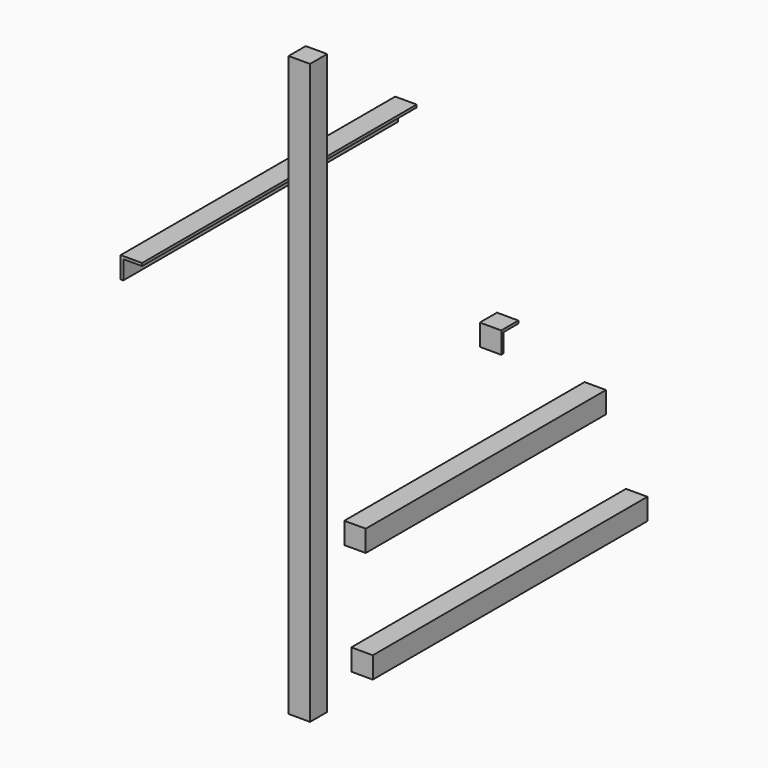
from build123d import *

# Parameters (mm, degrees)
F0_W     = 25.4
F0_H     = 685.8
F0_W_2   = 406.4
F0_H_2   = 25.4
F0_W_3   = 355.6
F2_DEPTH = 25.4
F3_DEPTH = 406.4
F5_DEPTH = 25.4


with BuildPart() as f2:
    # F0 (on Right) → F2 (new body)
    with BuildSketch(Plane.YZ):
        with Locations((-405.775041, 1.37486)):
            Rectangle(F0_W, F0_H)
        with Locations((-122.439238, -322.495435)):
            Rectangle(F0_W_2, F0_H_2)
        with Locations((-158.251571, -186.315849)):
            Rectangle(F0_W_3, F0_H_2)
    extrude(amount=F2_DEPTH)


with BuildPart() as f3:
    # F1 (on Front) → F3 (new body)
    with BuildSketch(Plane.XZ):
        Polygon((-208.543692, 64.031744), (-208.543692, 38.631744), (-205.368692, 38.631744), (-205.368692, 60.856744), (-183.143692, 60.856744), (-183.143692, 64.031744), align=None)
    extrude(amount=F3_DEPTH)


with BuildPart() as f5:
    # F4 (on Right) → F5 (new body)
    with BuildSketch(Plane.YZ):
        Polygon((-135.514705, -48.534752), (-135.514705, -73.934752), (-132.339705, -73.934752), (-132.339705, -51.709752), (-110.114705, -51.709752), (-110.114705, -48.534752), align=None)
    extrude(amount=F5_DEPTH)


solid = Compound([f2.part, f3.part, f5.part])
